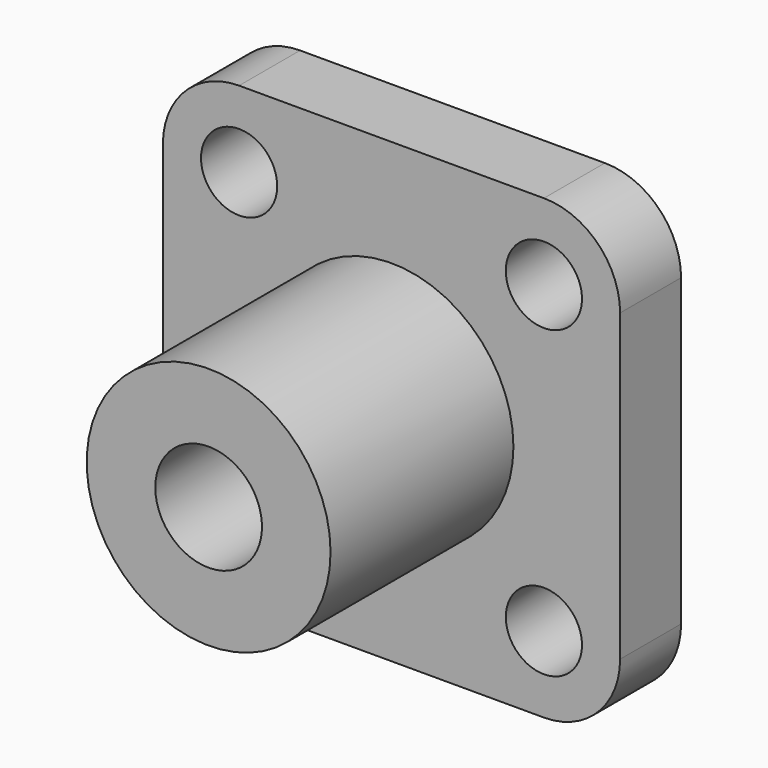
from build123d import *

# Parameters (mm, degrees)
F0_W     = 60
F0_H     = 60
F1_DEPTH = 10
F2_R     = 10
F3_R     = 16
F4_DEPTH = 30
F6_D     = 14
F8_D     = 10


with BuildPart() as f1:
    # F0 (on Front) → F1 (new body)
    with BuildSketch(Plane.XZ):
        Rectangle(F0_W, F0_H)
        Rectangle(F0_W, F0_H)
    extrude(amount=F1_DEPTH)

    # F2
    f2_edges = [f1.edges().sort_by_distance(p)[0] for p in [
        (30, -5, 30),
        (-30, -5, 30),
        (30, -5, -30),
        (-30, -5, -30),
    ]]
    fillet(f2_edges, radius=F2_R)

    # F3 (on face) → F4 (join)
    with BuildSketch(Plane.XZ.offset(10)):
        Circle(F3_R)
    extrude(amount=F4_DEPTH)

    # F6 (through all)
    with Locations(Plane.XZ.offset(40)):
        with Locations((0, 0)):
            Hole(F6_D / 2)

    # F8 (through all)
    with Locations(Plane.XZ.offset(40)):
        with Locations((-20, 20), (20, 20), (20, -20), (-20, -20)):
            Hole(F8_D / 2)


solid = f1.part
